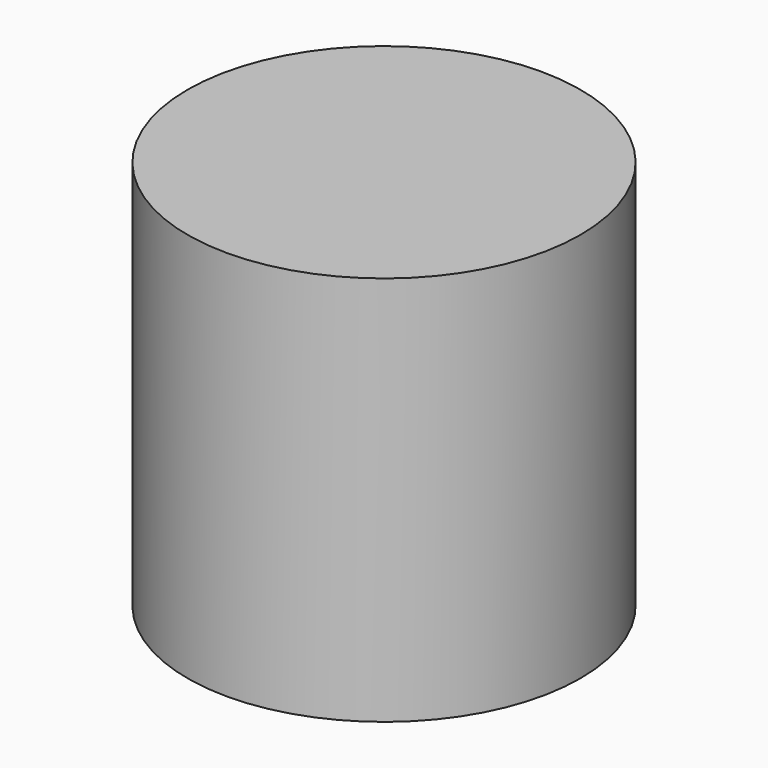
from build123d import *

# Parameters (mm, degrees)
F0_W     = 69.465278
F0_H     = 106.150199
F1_DEPTH = 25.4
F2_R     = 5.08
F3_R     = 12.783767
F4_DEPTH = 25.4


with BuildPart() as f1:
    # F0 (on Top) → F1 (new body)
    with BuildSketch(Plane.XY):
        with Locations((-1.492229, 2.367309)):
            Rectangle(F0_W, F0_H)
    extrude(amount=F1_DEPTH)

    # F2
    f2_edges = [f1.edges().sort_by_distance(p)[0] for p in [
        (33.24041, 2.367308, 25.4),
        (-1.492229, -50.707791, 25.4),
        (-36.224868, 2.367308, 25.4),
        (-1.492229, 55.442408, 25.4),
        (33.24041, -50.707791, 12.7),
        (33.24041, 55.442408, 12.7),
        (-36.224868, -50.707791, 12.7),
        (-36.224868, 55.442408, 12.7),
    ]]
    fillet(f2_edges, radius=F2_R)

    # F3 (on face) → F4 (intersect)
    with BuildSketch(Plane.XY.offset(25.4)):
        with Locations((-4.704368, -7.827024)):
            Circle(F3_R)
    extrude(amount=-F4_DEPTH, mode=Mode.INTERSECT)


solid = f1.part
